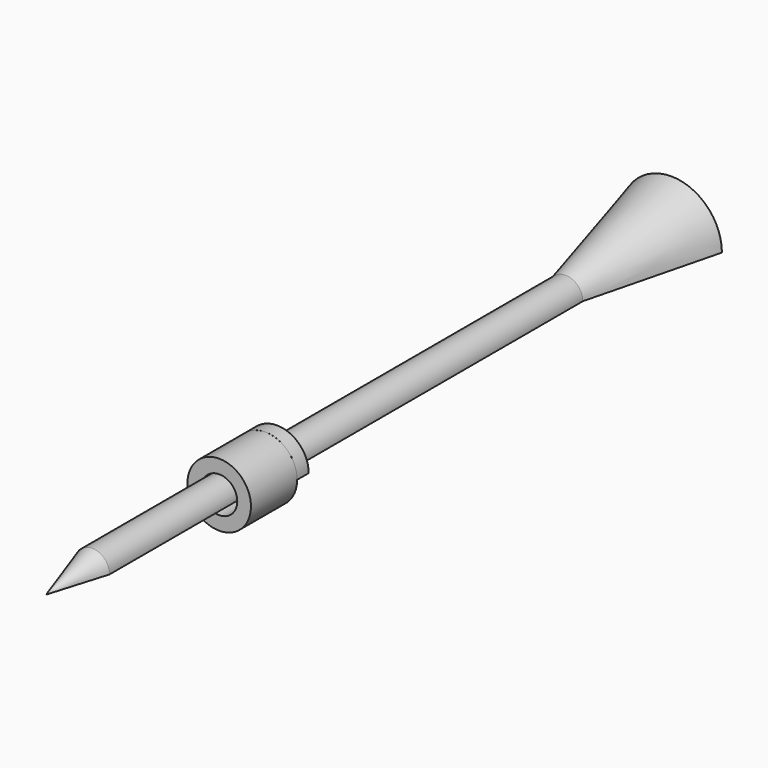
from build123d import *

# Parameters (mm, degrees)
F1_ANGLE = 180
F3_DEPTH = 5.08


with BuildPart() as f1:
    # F0 (on Top) → F1 (revolve)
    with BuildSketch(Plane.XY):
        Polygon((-1.524, 5.08), (0, 0), (0, 60.031697), (-2.044413, 63.471053), (-3.093746, 67.619681), (-4.46436, 68.774976), (-1.524, 57.15), (-1.524, 25.4), (-2.794, 25.4), (-2.794, 24.13), (-1.524, 24.13), align=None)
    revolve(axis=Axis((0, 30.015849, 0), (0, 1, 0)), revolution_arc=F1_ANGLE)


with BuildPart() as f3:
    # F2 (on face) → F3 (new body)
    with BuildSketch(Plane.XZ.offset(-24.13)):
        with BuildLine():
            Line((1.5875, 0), (2.794, 0))
            ThreePointArc((2.794, 0), (0, 2.794), (-2.794, 0))
            Line((-2.794, 0), (-1.5875, 0))
            ThreePointArc((-1.5875, 0), (0, 1.5875), (1.5875, 0))
        make_face()
        with BuildLine():
            ThreePointArc((-2.794, 0), (0, -2.794), (2.794, 0))
            Line((2.794, 0), (1.5875, 0))
            ThreePointArc((1.5875, 0), (0, -1.5875), (-1.5875, 0))
            Line((-1.5875, 0), (-2.794, 0))
        make_face()
    extrude(amount=F3_DEPTH)


solid = Compound([f1.part, f3.part])
